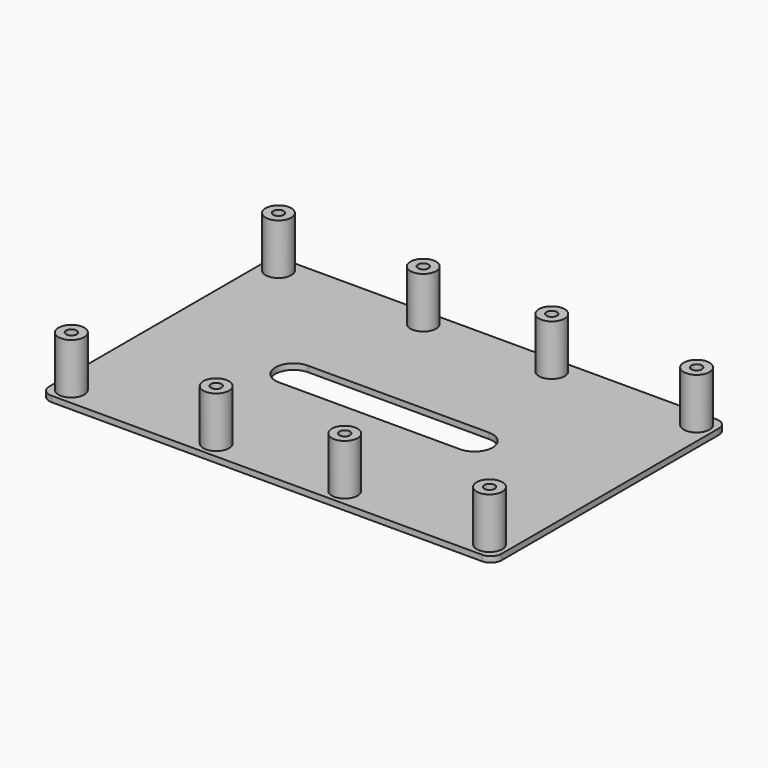
from build123d import *

# Parameters (mm, degrees)
PAD005_DEPTH    = 1.6
SKETCH008_R     = 3.55
PAD006_DEPTH    = 15.6
SKETCH009_R     = 1.45
POCKET002_DEPTH = 12
POCKET003_DEPTH = 1.6


with BuildPart() as part:
    # Sketch007 → Pad005 (new body)
    with BuildSketch(Plane.XY):
        with BuildLine():
            Line((-59.5, 40.5), (59.5, 40.5))
            ThreePointArc((62.5, 37.5), (61.62132, 39.62132), (59.5, 40.5))
            Line((62.5, 37.5), (62.5, -37.5))
            ThreePointArc((59.5, -40.5), (61.62132, -39.62132), (62.5, -37.5))
            Line((59.5, -40.5), (-59.5, -40.5))
            ThreePointArc((-62.5, -37.5), (-61.62132, -39.62132), (-59.5, -40.5))
            Line((-62.5, -37.5), (-62.5, 37.5))
            ThreePointArc((-59.5, 40.5), (-61.62132, 39.62132), (-62.5, 37.5))
        make_face()
    extrude(amount=PAD005_DEPTH)

    # Sketch008 → Pad006 (join)
    with BuildSketch(Plane.XY):
        with Locations((-57.75, 35.75)):
            Circle(SKETCH008_R)
        with Locations((-17.75, 35.75)):
            Circle(SKETCH008_R)
        with Locations((17.75, 35.75)):
            Circle(SKETCH008_R)
        with Locations((57.75, 35.75)):
            Circle(SKETCH008_R)
        with Locations((57.75, -35.75)):
            Circle(SKETCH008_R)
        with Locations((17.75, -35.75)):
            Circle(SKETCH008_R)
        with Locations((-17.75, -35.75)):
            Circle(SKETCH008_R)
        with Locations((-57.75, -35.75)):
            Circle(SKETCH008_R)
    extrude(amount=PAD006_DEPTH)

    # Sketch009 (on DatumPlane) → Pocket002 (cut)
    with BuildSketch(Plane.XY.offset(15.6)):
        with Locations((-57.75, 35.75)):
            Circle(SKETCH009_R)
        with Locations((-17.75, 35.75)):
            Circle(SKETCH009_R)
        with Locations((17.75, 35.75)):
            Circle(SKETCH009_R)
        with Locations((57.75, 35.75)):
            Circle(SKETCH009_R)
        with Locations((-57.75, -35.75)):
            Circle(SKETCH009_R)
        with Locations((-17.75, -35.75)):
            Circle(SKETCH009_R)
        with Locations((17.75, -35.75)):
            Circle(SKETCH009_R)
        with Locations((57.75, -35.75)):
            Circle(SKETCH009_R)
    extrude(amount=-POCKET002_DEPTH, mode=Mode.SUBTRACT)

    # Sketch011 → Pocket003 (cut)
    with BuildSketch(Plane.XY):
        with BuildLine():
            ThreePointArc((-25, 5), (-30, 0), (-25, -5))
            Line((-25, -5), (25, -5))
            ThreePointArc((25, -5), (30, 0), (25, 5))
            Line((25, 5), (-25, 5))
        make_face()
    extrude(amount=POCKET003_DEPTH, mode=Mode.SUBTRACT)


with BuildPart() as part_1:
    # Body002 placement: moved
    add(part.part.moved(Location((0, 0, 76))))


solid = part_1.part
